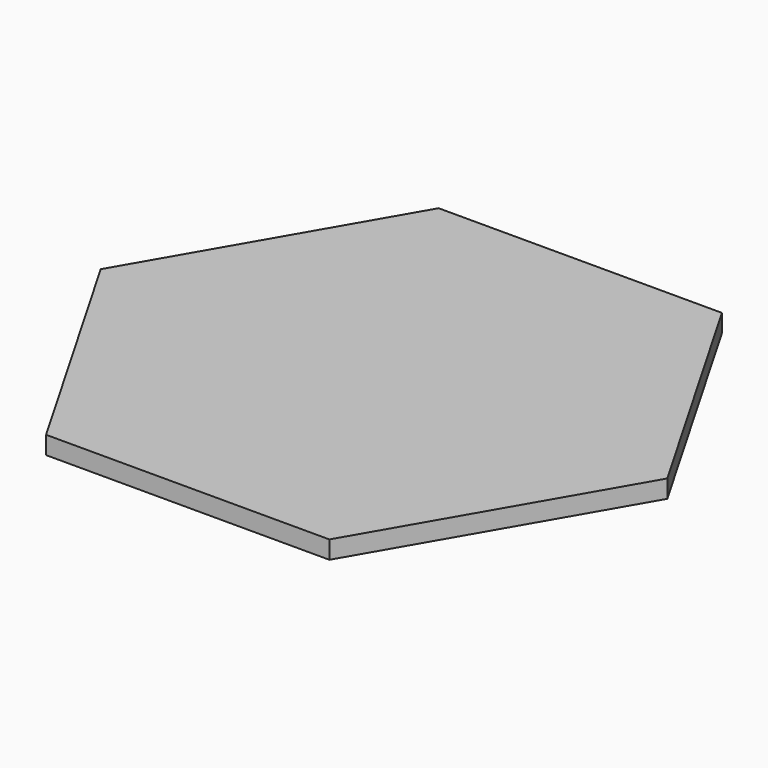
from build123d import *

# Parameters (mm, degrees)
PAD_DEPTH = 2


with BuildPart() as part:
    # Sketch → Pad (new body)
    with BuildSketch(Plane.XY):
        Polygon((-31.6, 0), (-15.8, -27.366403), (15.8, -27.366403), (31.6, 0), (15.8, 27.366403), (-15.8, 27.366403), align=None)
    extrude(amount=PAD_DEPTH)


solid = part.part
